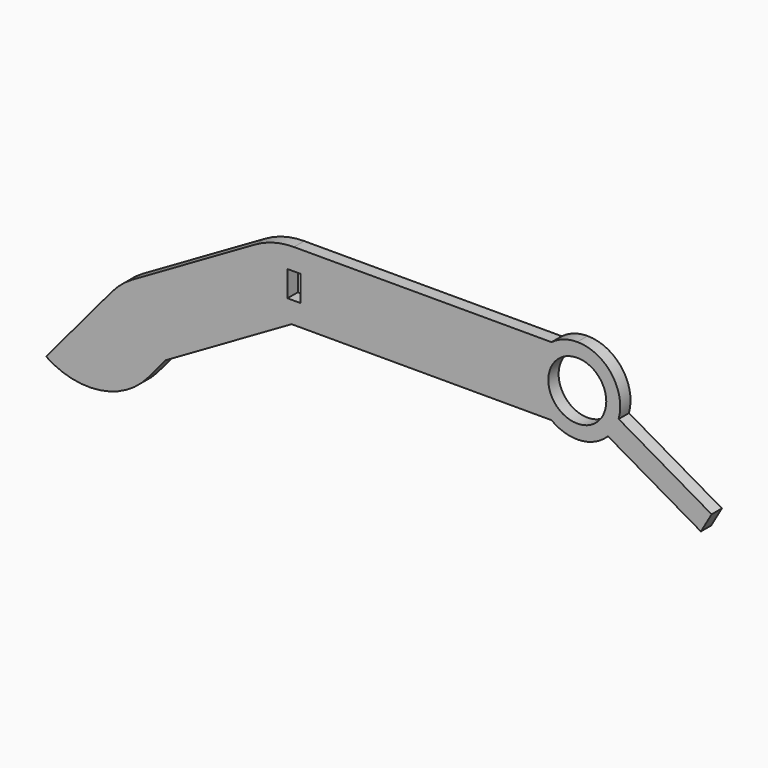
from build123d import *

# Parameters (mm, degrees)
F0_W     = 3
F0_H     = 6
F0_R     = 6.75
F1_DEPTH = 3


with BuildPart() as f1:
    # F0 (on Front) → F1 (new body)
    with BuildSketch(Plane.XZ):
        with BuildLine():
            Line((-62.884246, -24.944276), (-33.535898, -8))
            Line((-33.535898, -8), (27, -8))
            ThreePointArc((27, -8), (29.837722, -9.486833), (33, -10))
            ThreePointArc((33, -10), (36.868919, -9.221251), (40.135255, -7.006293))
            Line((40.135255, -7.006293), (61.78589, -19.506293))
            Line((61.78589, -19.506293), (64.28589, -15.176166))
            Line((64.28589, -15.176166), (42.635255, -2.676166))
            ThreePointArc((42.635255, -2.676166), (40.961208, 6.051378), (33, 10))
            ThreePointArc((33, 10), (29.837722, 9.486833), (27, 8))
            Line((27, 8), (-33, 8))
            ThreePointArc((-33, 8), (-37.658743, 7.386665), (-42, 5.588457))
            Line((-42, 5.588457), (-70.578838, -10.911543))
            ThreePointArc((-70.578838, -10.911543), (-73.149015, -12.7112), (-75.367638, -14.929823))
            Line((-75.367638, -14.929823), (-90.722898, -33.229509))
            ThreePointArc((-90.722898, -33.229509), (-78.192339, -36.056949), (-66.967653, -29.810691))
            Line((-66.967653, -29.810691), (-62.884246, -24.944276))
        make_face()
        with Locations((-33, 0)):
            Rectangle(F0_W, F0_H, mode=Mode.SUBTRACT)
        with Locations((33, 0)):
            Circle(F0_R, mode=Mode.SUBTRACT)
    extrude(amount=F1_DEPTH)


solid = f1.part
